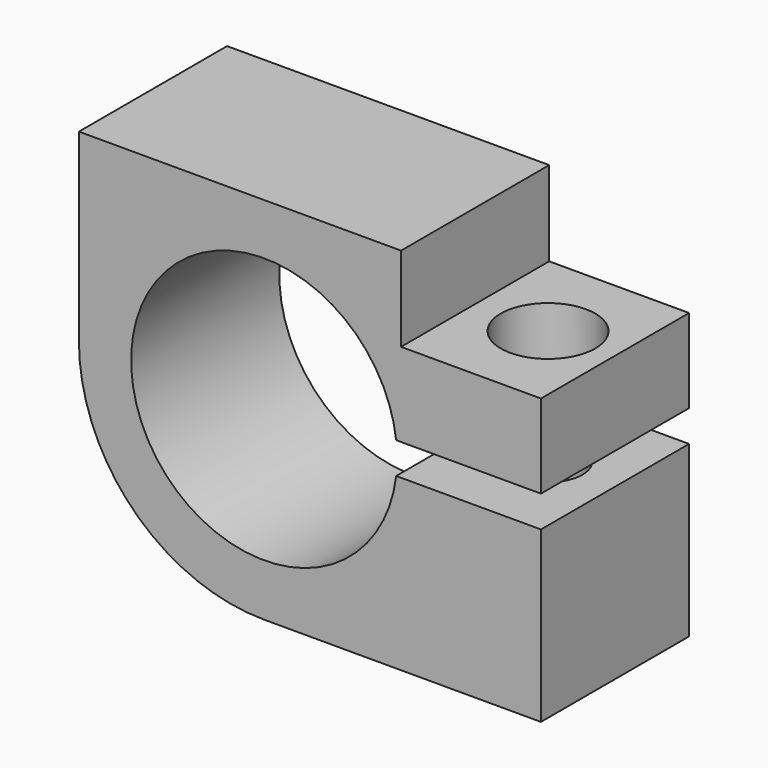
from build123d import *

# Parameters (mm, degrees)
F0_R     = 3.429
F1_DEPTH = 4.7752
F3_DEPTH = 4.7762
F4_R     = 0.889
F5_DEPTH = 7.3416
F6_R     = 1.2192
F6_R_2   = 0.889
F7_DEPTH = 2.5908
F8_R     = 0.8001
F9_DEPTH = 4.7752
F10_R    = 4.7752


with BuildPart() as f1:
    # F0 (on Front) → F1 (new body)
    with BuildSketch(Plane.XZ):
        Polygon((0, 9.525), (0, 0), (11.9126, 0), (11.9126, 7.3406), (8.3058, 7.3406), (8.3058, 9.525), align=None)
        with Locations((4.7752, 4.7752)):
            Circle(F0_R, mode=Mode.SUBTRACT)
    extrude(amount=F1_DEPTH)

    # F2 (on face) → F3 (cut, through all)
    with BuildSketch(Plane.XZ.offset(4.7752)):
        with BuildLine():
            Line((11.9126, 5.1816), (8.1800318666, 5.1816))
            ThreePointArc((8.1800318666, 5.1816), (8.1981526341, 4.9787589955), (8.2042, 4.7752))
            ThreePointArc((8.2042, 4.7752), (8.1981526341, 4.5716410045), (8.1800318666, 4.3688))
            Line((8.1800318666, 4.3688), (11.9126, 4.3688))
            Line((11.9126, 4.3688), (11.9126, 5.1816))
        make_face()
    extrude(amount=-F3_DEPTH, mode=Mode.SUBTRACT)

    # F4 (on face) → F5 (cut, through all)
    with BuildSketch(Plane.XY.offset(7.3406)):
        with Locations((10.1854, -2.3876)):
            Circle(F4_R)
    extrude(amount=-F5_DEPTH, mode=Mode.SUBTRACT)

    # F6 (on face) → F7 (cut)
    with BuildSketch(Plane.XY.offset(7.3406)):
        with Locations((10.1854, -2.3876)):
            Circle(F6_R)
        with Locations((10.1854, -2.3876)):
            Circle(F6_R_2, mode=Mode.SUBTRACT)
    extrude(amount=-F7_DEPTH, mode=Mode.SUBTRACT)

    # F8 (on face) → F9 (cut)
    with BuildSketch(Plane(origin=(0, 0, 0), x_dir=(0, -1, 0), z_dir=(-1, 0, 0))):
        with Locations((2.3876, 8.0518)):
            Circle(F8_R)
    extrude(amount=-F9_DEPTH, mode=Mode.SUBTRACT)

    # F10
    f10_edges = [f1.edges().sort_by_distance(p)[0] for p in [
        (0, -2.3876, 0),
    ]]
    fillet(f10_edges, radius=F10_R)


solid = f1.part
